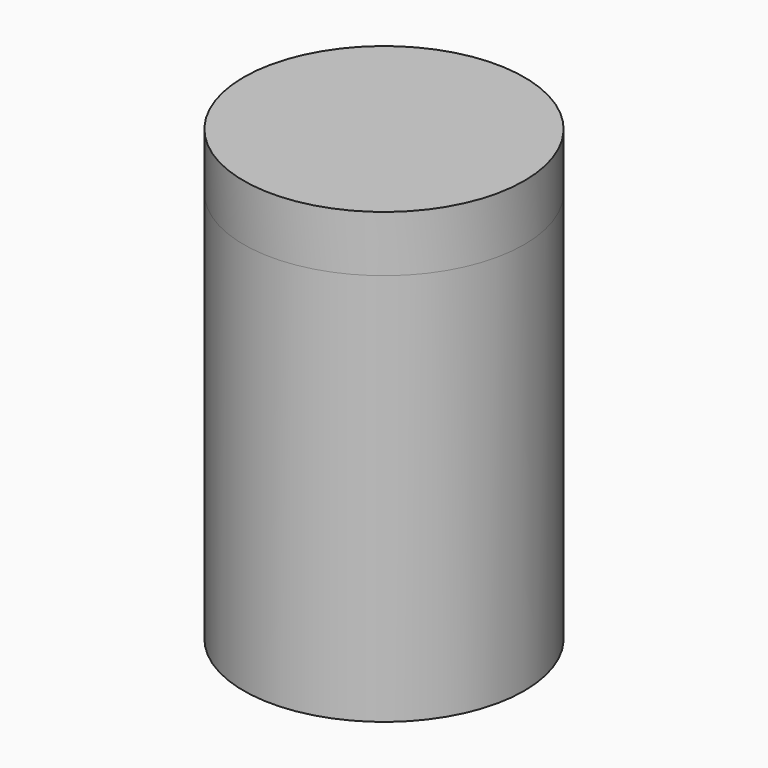
from build123d import *

# Parameters (mm, degrees)
F0_R      = 6.35
F1_DEPTH  = 17.78
F2_R      = 3.683
F3_DEPTH  = 2.54
F1_FACE_R = 6.35
F4_DEPTH  = 2.54


with BuildPart() as f1:
    # F0 (on Top) → F1 (new body)
    with BuildSketch(Plane.XY):
        Circle(F0_R)
    extrude(amount=F1_DEPTH)


with BuildPart() as f3:
    # F2 (on face) → F3 (new body)
    with BuildSketch(Plane.XY.offset(17.78)):
        Circle(F2_R)
    extrude(amount=F3_DEPTH)


with BuildPart() as f4:
    # F1_face (on face) → F4 (new body)
    with BuildSketch(Plane.XY.offset(17.78)):
        Circle(F1_FACE_R)
    extrude(amount=F4_DEPTH)


solid = Compound([f1.part, f3.part, f4.part])
